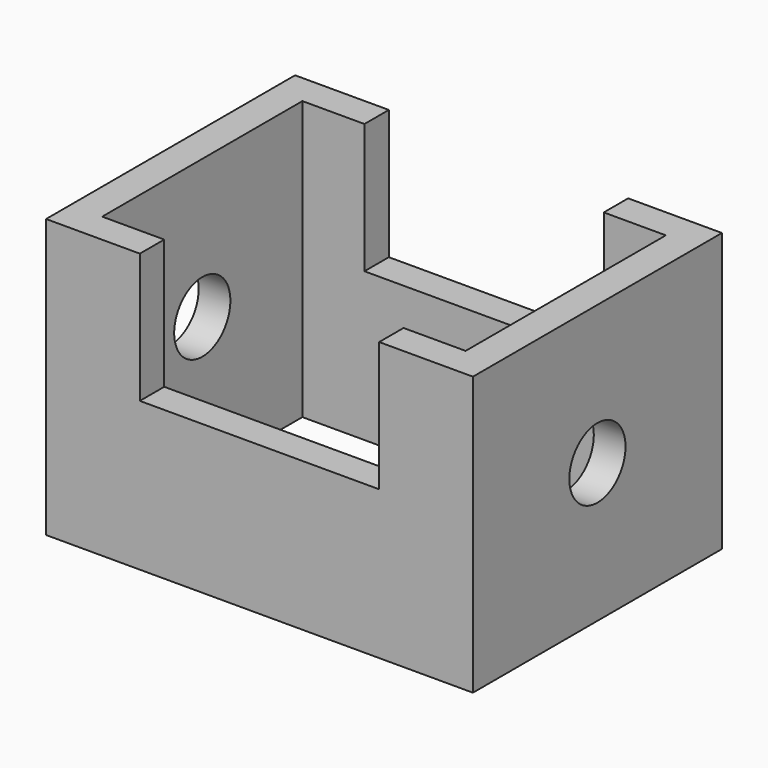
from build123d import *

# Parameters (mm, degrees)
F0_W     = 108.723074
F0_H     = 79.27715
F0_W_2   = 92.569218
F0_H_2   = 63.744598
F1_DEPTH = 70.866
F2_R     = 8.945792
F3_DEPTH = 254
F5_DEPTH = 254


with BuildPart() as f1:
    # F0 (on Top) → F1 (new body)
    with BuildSketch(Plane.XY):
        Rectangle(F0_W, F0_H)
        Rectangle(F0_W_2, F0_H_2, mode=Mode.SUBTRACT)
    extrude(amount=F1_DEPTH)

    # F2 (on face) → F3 (cut)
    with BuildSketch(Plane.YZ.offset(54.361537)):
        with Locations((0, 35.433)):
            Circle(F2_R)
    extrude(amount=-F3_DEPTH, mode=Mode.SUBTRACT)

    # F4 (on face) → F5 (cut)
    with BuildSketch(Plane(origin=(0, 39.638575, 0), x_dir=(-1, 0, 0), z_dir=(0, 1, 0))):
        Polygon((30.48, 70.866), (0, 70.866), (-30.48, 70.866), (-30.48, 37.846), (30.48, 37.846), align=None)
    extrude(amount=-F5_DEPTH, mode=Mode.SUBTRACT)


solid = f1.part
